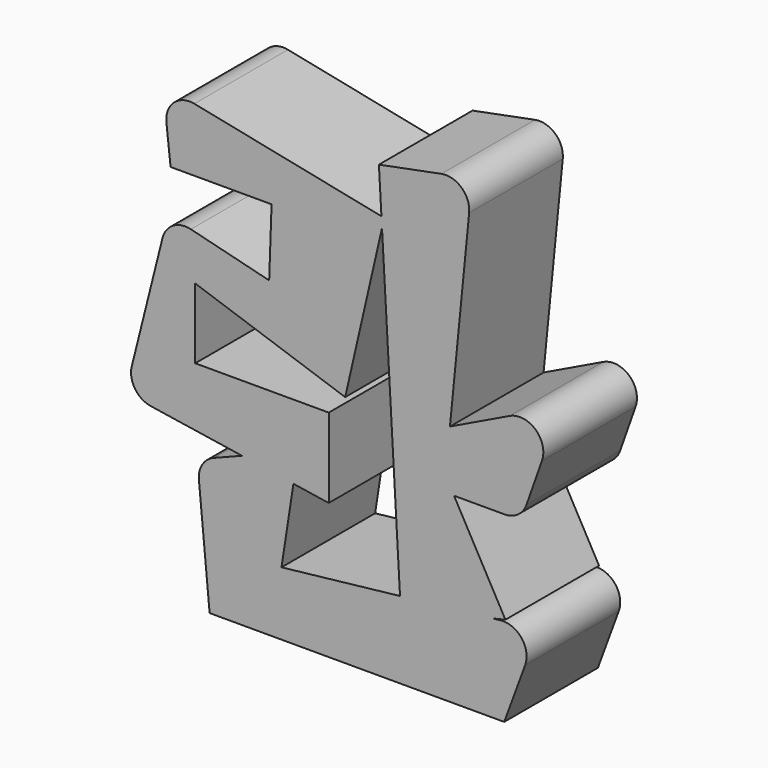
from build123d import *

# Parameters (mm, degrees)
F1_DEPTH = 25


with BuildPart() as f1:
    # F0 (on Front) → F1 (new body)
    with BuildSketch(Plane.XZ):
        with BuildLine():
            Line((11.2529525632, 25.5719103574), (-28.7091841749, 33.7317692207))
            ThreePointArc((-28.7091841749, 33.7317692207), (-33.0791185256, 32.5268508308), (-34.6794692086, 28.2857386834))
            Line((-34.6794692086, 28.2857386834), (-33.7876938283, 20.1848633587))
            Line((-33.7876938283, 20.1848633587), (-12.2149352244, 20.1848633587))
            Line((-12.2149352244, 20.1848633587), (-12.7252340317, 5.7044224814))
            Line((-12.7252340317, 5.7044224814), (-29.4532211279, 9.8864179047))
            ThreePointArc((-29.4532211279, 9.8864179047), (-33.2383779875, 9.3231697449), (-35.5166114774, 6.2483830684))
            Line((-35.5166114774, 6.2483830684), (-42.0813092384, -20.0104164566))
            ThreePointArc((-42.0813092384, -20.0104164566), (-41.3947846916, -23.9906812336), (-37.9909069679, -26.1649489473))
            Line((-37.9909069679, -26.1649489473), (-18.5302336488, -29.1589970529))
            Line((-18.5302336488, -29.1589970529), (-6.5646277773, -24.4605900007))
            Line((-6.5646277773, -24.4605900007), (-7.5474480488, -30.8487118886))
            Line((-7.5474480488, -30.8487118886), (0, -32.009895891))
            Line((0, -32.009895891), (0, -15.0134898722))
            Line((0, -15.0134898722), (-28.5220816731, -15.0134898722))
            Line((-28.5220816731, -15.0134898722), (-28.5220816731, 0))
            Line((-28.5220816731, 0), (3.5104178824, -10.970025789))
            Line((3.5104178824, -10.970025789), (11.3763592704, 23.3917243433))
            Line((11.3763592704, 23.3917243433), (11.2529525632, 25.5719103574))
        make_face()
        Polygon((-18.5302336488, -29.1589970529), (-7.5474480488, -30.8487118886), (-6.5646277773, -24.4605900007), align=None)
        with BuildLine():
            Line((15.3580629267, -46.9517344609), (15.222414088, -44.5552707064))
            Line((15.222414088, -44.5552707064), (-10.0924270228, -47.3905317485))
            Line((-10.0924270228, -47.3905317485), (-7.5474480488, -30.8487118886))
            Line((-7.5474480488, -30.8487118886), (-18.5302336488, -29.1589970529))
            Line((-18.5302336488, -29.1589970529), (-24.5814100591, -31.5350480632))
            ThreePointArc((-24.5814100591, -31.5350480632), (-27.0124374728, -33.5689569902), (-27.7321167453, -36.6558229663))
            Line((-27.7321167453, -36.6558229663), (-25.4504680634, -60.993373394))
            Line((-25.4504680634, -60.993373394), (37.4828639732, -60.993373394))
            Line((37.4828639732, -60.993373394), (41.9581710206, -48.846130405))
            ThreePointArc((41.9581710206, -48.846130405), (41.2020572929, -44.0336030254), (36.7099361565, -42.1486692213))
            Line((36.7099361565, -42.1486692213), (34.9182204254, -42.3493413009))
            Line((34.9182204254, -42.3493413009), (15.3580629267, -46.9517344609))
        make_face()
        Polygon((34.9182204254, -42.3493413009), (15.222414088, -44.5552707064), (15.3580629267, -46.9517344609), align=None)
        with BuildLine():
            Line((10.7133946785, 35.1041033864), (11.2529525632, 25.5719103574))
            Line((11.2529525632, 25.5719103574), (11.8476408534, 25.4504811019))
            Line((11.8476408534, 25.4504811019), (11.3763592704, 23.3917243433))
            Line((11.3763592704, 23.3917243433), (15.222414088, -44.5552707064))
            Line((15.222414088, -44.5552707064), (34.9182204254, -42.3493413009))
            Line((34.9182204254, -42.3493413009), (37.7369229682, -41.6861167178))
            Line((37.7369229682, -41.6861167178), (26.7668929882, -21.9400599599))
            Line((26.7668929882, -21.9400599599), (37.5290844583, -21.9400599599))
            ThreePointArc((37.5290844583, -21.9400599599), (40.4169469837, -21.0217569152), (42.2440363291, -18.6041599738))
            Line((42.2440363291, -18.6041599738), (45.552152148, -9.2311615131))
            ThreePointArc((45.552152148, -9.2311615131), (44.1740915946, -3.8434669541), (38.6681224894, -3.062053003))
            Line((38.6681224894, -3.062053003), (25.8892909624, -9.2148226686))
            Line((25.8892909624, -9.2148226686), (29.9903947995, 32.3088539539))
            ThreePointArc((29.9903947995, 32.3088539539), (28.3796544347, 36.4984568802), (24.0570528899, 37.7077430696))
            Line((24.0570528899, 37.7077430696), (10.7133946785, 35.1041033864))
        make_face()
        Polygon((11.8476408534, 25.4504811019), (11.2529525632, 25.5719103574), (11.3763592704, 23.3917243433), align=None)
    extrude(amount=F1_DEPTH)


solid = f1.part
